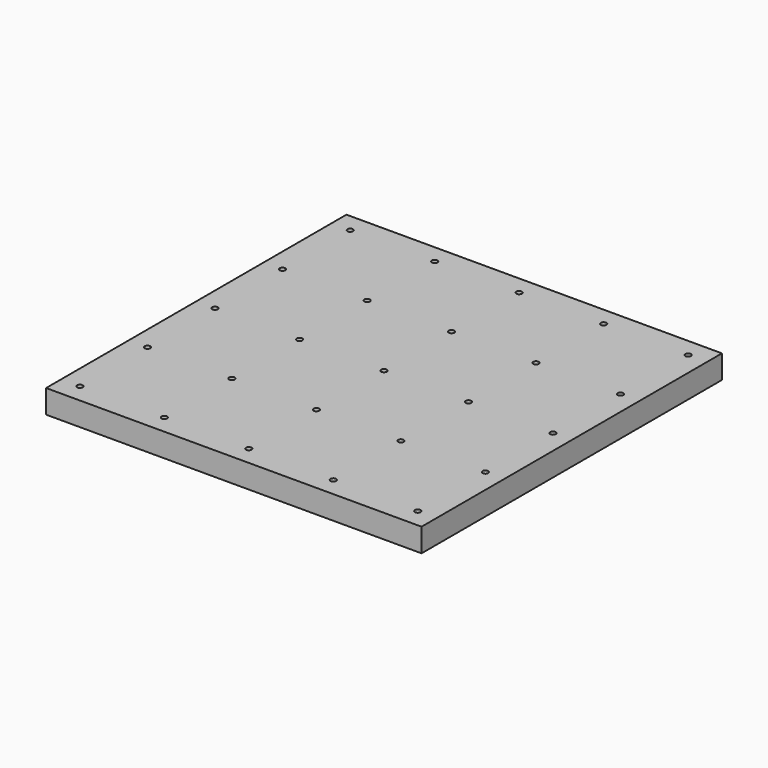
from build123d import *

# Parameters (mm, degrees)
SKETCH_W                     = 400
SKETCH_H                     = 400
PAD_DEPTH                    = 25
SKETCH002_R                  = 3.01
POCKET_DEPTH                 = 1157.476165
SKETCH002_LINEARPATTERN_2_R  = 3.01
POCKET_LINEARPATTERN_2_DEPTH = 1157.476165
SKETCH002_LINEARPATTERN_3_R  = 3.01
POCKET_LINEARPATTERN_3_DEPTH = 1157.476165
SKETCH002_LINEARPATTERN_4_R  = 3.01
POCKET_LINEARPATTERN_4_DEPTH = 1157.476165
SKETCH002_LINEARPATTERN_5_R  = 3.01
POCKET_LINEARPATTERN_5_DEPTH = 1157.476165
LINEARPATTERN001_COUNT       = 5
LINEARPATTERN001_PITCH       = 90


with BuildPart() as part:
    # Sketch → Pad (new body)
    with BuildSketch(Plane.XY):
        with Locations((200, 200)):
            Rectangle(SKETCH_W, SKETCH_H)
    extrude(amount=PAD_DEPTH)

    # Sketch002 (on Face6 of Pad) → Pocket (cut, through all)
    with BuildSketch(Plane.XY.offset(25)):
        with Locations((20, 20)):
            Circle(SKETCH002_R)
    pocket = extrude(amount=-POCKET_DEPTH, mode=Mode.SUBTRACT)

    # Sketch002 LinearPattern 2 → Pocket LinearPattern 2 (cut, through all)
    with BuildSketch(Plane(origin=(90, 0, 25), x_dir=(1, 0, 0), z_dir=(0, 0, 1))):
        with Locations((20, 20)):
            Circle(SKETCH002_LINEARPATTERN_2_R)
    pocket_linearpattern_2 = extrude(amount=-POCKET_LINEARPATTERN_2_DEPTH, mode=Mode.SUBTRACT)

    # Sketch002 LinearPattern 3 → Pocket LinearPattern 3 (cut, through all)
    with BuildSketch(Plane(origin=(180, 0, 25), x_dir=(1, 0, 0), z_dir=(0, 0, 1))):
        with Locations((20, 20)):
            Circle(SKETCH002_LINEARPATTERN_3_R)
    pocket_linearpattern_3 = extrude(amount=-POCKET_LINEARPATTERN_3_DEPTH, mode=Mode.SUBTRACT)

    # Sketch002 LinearPattern 4 → Pocket LinearPattern 4 (cut, through all)
    with BuildSketch(Plane(origin=(270, 0, 25), x_dir=(1, 0, 0), z_dir=(0, 0, 1))):
        with Locations((20, 20)):
            Circle(SKETCH002_LINEARPATTERN_4_R)
    pocket_linearpattern_4 = extrude(amount=-POCKET_LINEARPATTERN_4_DEPTH, mode=Mode.SUBTRACT)

    # Sketch002 LinearPattern 5 → Pocket LinearPattern 5 (cut, through all)
    with BuildSketch(Plane(origin=(360, 0, 25), x_dir=(1, 0, 0), z_dir=(0, 0, 1))):
        with Locations((20, 20)):
            Circle(SKETCH002_LINEARPATTERN_5_R)
    pocket_linearpattern_5 = extrude(amount=-POCKET_LINEARPATTERN_5_DEPTH, mode=Mode.SUBTRACT)

    # LinearPattern001: Pocket, Pocket LinearPattern 2, Pocket LinearPattern 3, Pocket LinearPattern 4, Pocket LinearPattern 5 ×5
    with Locations(*[(0, i * LINEARPATTERN001_PITCH, 0) for i in range(1, LINEARPATTERN001_COUNT)]):
        add(pocket, mode=Mode.SUBTRACT)
        add(pocket_linearpattern_2, mode=Mode.SUBTRACT)
        add(pocket_linearpattern_3, mode=Mode.SUBTRACT)
        add(pocket_linearpattern_4, mode=Mode.SUBTRACT)
        add(pocket_linearpattern_5, mode=Mode.SUBTRACT)


solid = part.part
